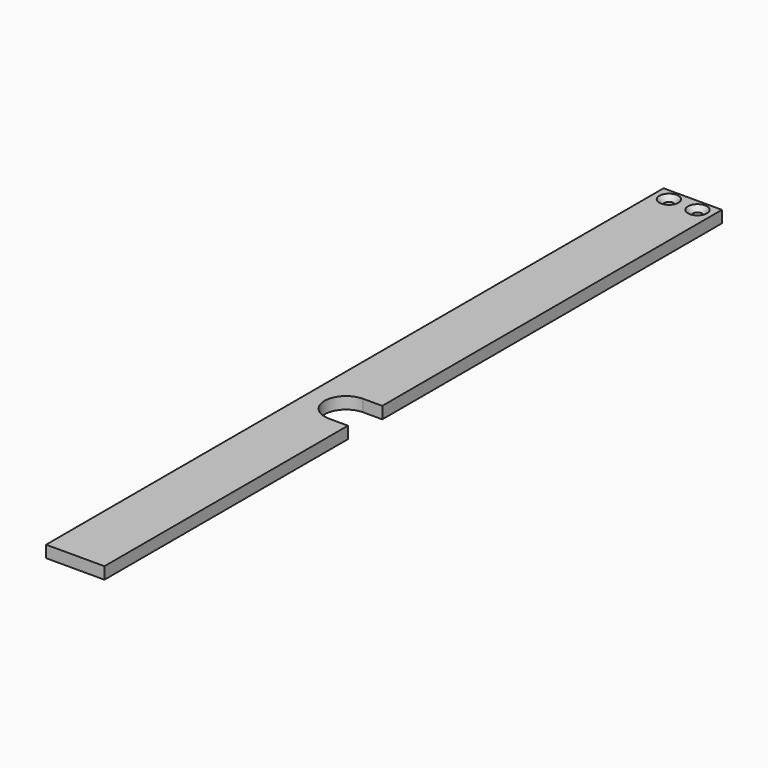
from build123d import *

# Parameters (mm, degrees)
PAD027_DEPTH    = 5
SKETCH059_R     = 2
POCKET037_DEPTH = 5.001
CHAMFER021_SIZE = 2


with BuildPart() as part:
    # Sketch054 → Pad027 (new body)
    with BuildSketch(Plane.XY):
        with BuildLine():
            Line((8.676816, 19.977719), (8.676816, -107.8))
            Line((8.676816, -107.8), (-15.823184, -107.8))
            Line((-15.823184, -107.8), (-15.823184, 216.2))
            Line((-15.823184, 216.2), (8.676816, 216.2))
            Line((8.676816, 216.2), (8.676816, 37.977719))
            Line((0.676816, 37.977719), (8.676816, 37.977719))
            ThreePointArc((0.676816, 37.977719), (-8.323184, 28.977719), (0.676816, 19.977719))
            Line((0.676816, 19.977719), (8.676816, 19.977719))
        make_face()
    extrude(amount=PAD027_DEPTH)

    # Sketch059 (on Face10 of Pad027) → Pocket037 (cut, through all)
    with BuildSketch(Plane.XY.offset(5)):
        with Locations((-9.573184, 211.2)):
            Circle(SKETCH059_R)
        with Locations((2.426816, 211.2)):
            Circle(SKETCH059_R)
    extrude(amount=-POCKET037_DEPTH, mode=Mode.SUBTRACT)

    # Chamfer021
    chamfer021_edges = [part.edges().sort_by_distance(p)[0] for p in [
        (-11.573184, 211.2, 5),
        (0.426816, 211.2, 5),
    ]]
    chamfer(chamfer021_edges, length=CHAMFER021_SIZE)


with BuildPart() as part_1:
    # Body020 placement: moved
    add(part.part.moved(Location((0, 0, 15.5))))


solid = part_1.part
